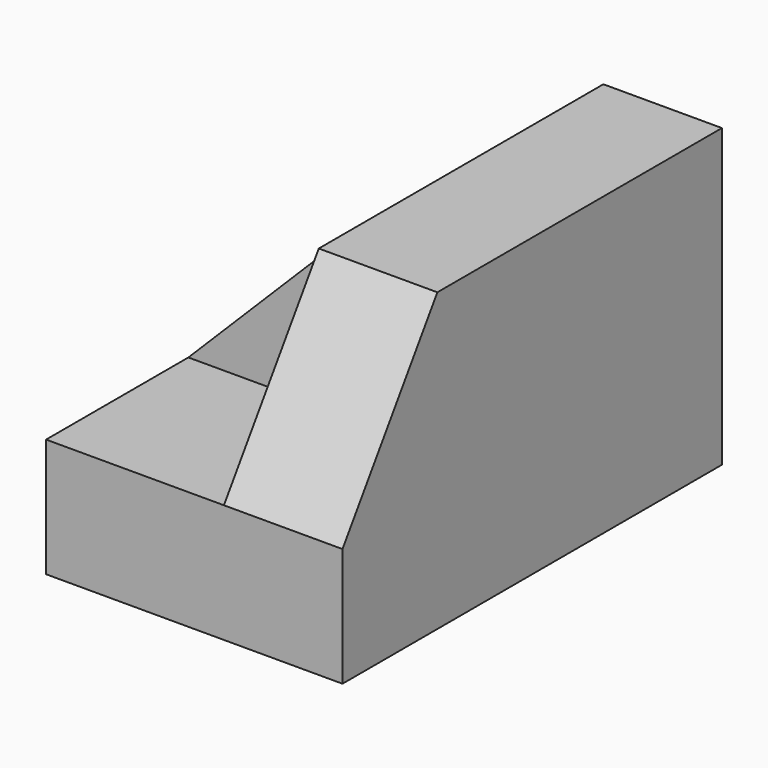
from build123d import *

# Parameters (mm, degrees)
F1_DEPTH = 31.75
F3_DEPTH = 19.05
F5_DEPTH = 12.7
F6_W     = 19.05
F6_H     = 19.05
F7_DEPTH = 19.05


with BuildPart() as f1:
    # F0 (on Right) → F1 (new body)
    with BuildSketch(Plane.YZ):
        Polygon((-50.8, 0), (0, 0), (0, 31.75), (-38.1, 31.75), (-50.8, 12.7), align=None)
    extrude(amount=F1_DEPTH)

    # F2 (on face) → F3 (cut)
    with BuildSketch(Plane(origin=(0, 0, 0), x_dir=(0, -1, 0), z_dir=(-1, 0, 0))):
        Polygon((31.75, 12.7), (50.8, 12.7), (38.1, 31.75), (31.75, 31.75), align=None)
    extrude(amount=-F3_DEPTH, mode=Mode.SUBTRACT)

    # F4 (on face) → F5 (cut)
    with BuildSketch(Plane.XZ.offset(31.75)):
        Polygon((0, 12.7), (19.05, 31.75), (0, 31.75), align=None)
    extrude(amount=-F5_DEPTH, mode=Mode.SUBTRACT)

    # F6 (on face) → F7 (cut)
    with BuildSketch(Plane(origin=(0, 0, 0), x_dir=(0, -1, 0), z_dir=(-1, 0, 0))):
        with Locations((9.525, 22.225)):
            Rectangle(F6_W, F6_H)
    extrude(amount=-F7_DEPTH, mode=Mode.SUBTRACT)


solid = f1.part
